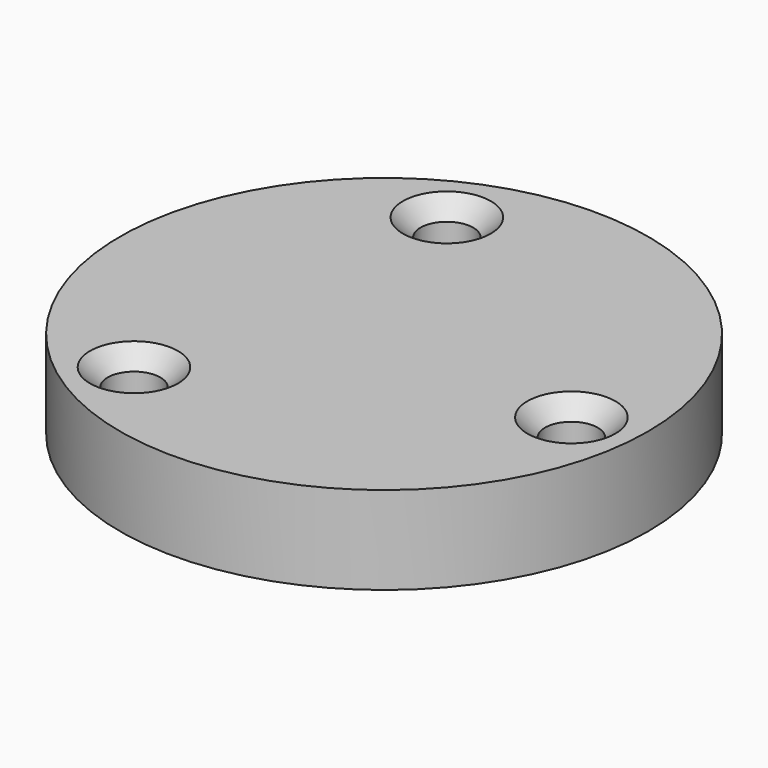
from build123d import *

# Parameters (mm, degrees)
F0_R     = 38.1
F0_R_2   = 6.35
F1_DEPTH = 12.7
F2_R     = 6.35
F2_R_2   = 3.810001
F2_R_3   = 3.81
F3_DEPTH = 12.7
F4_R     = 2.54
F5_SIZE  = 2.54


with BuildPart() as f1:
    # F0 (on Top) → F1 (new body)
    with BuildSketch(Plane.XY):
        Circle(F0_R)
        with Locations((-16.948049, -23.936937)):
            Circle(F0_R_2, mode=Mode.SUBTRACT)
        with Locations((29.20402, -2.708972)):
            Circle(F0_R_2, mode=Mode.SUBTRACT)
        with Locations((-12.255971, 26.64591)):
            Circle(F0_R_2, mode=Mode.SUBTRACT)
    extrude(amount=F1_DEPTH)

    # F2 (on face) → F3 (join)
    with BuildSketch(Plane.XY.offset(12.7)):
        with Locations((-16.948049, -23.936937)):
            Circle(F2_R)
        with Locations((-16.948049, -23.936937)):
            Circle(F2_R_2, mode=Mode.SUBTRACT)
        with Locations((-12.255971, 26.64591)):
            Circle(F2_R)
        with Locations((-12.255971, 26.64591)):
            Circle(F2_R_3, mode=Mode.SUBTRACT)
        with Locations((29.20402, -2.708972)):
            Circle(F2_R)
        with Locations((29.20402, -2.708972)):
            Circle(F2_R_3, mode=Mode.SUBTRACT)
    extrude(amount=-F3_DEPTH)

    # F4
    f4_edges = [f1.edges().sort_by_distance(p)[0] for p in [
        (25.39402, -2.708972, 0),
        (-16.065971, 26.64591, 0),
        (-20.75805, -23.936937, 0),
    ]]
    fillet(f4_edges, radius=F4_R)

    # F5
    f5_edges = [f1.edges().sort_by_distance(p)[0] for p in [
        (-16.065971, 26.64591, 12.7),
        (25.39402, -2.708972, 12.7),
        (-20.75805, -23.936937, 12.7),
    ]]
    chamfer(f5_edges, length=F5_SIZE)


solid = f1.part
